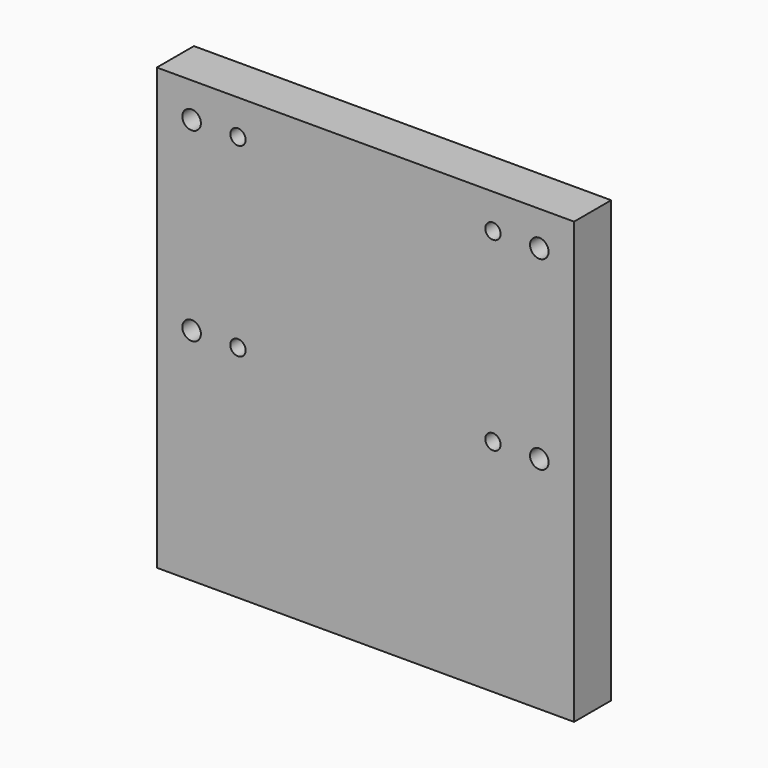
from build123d import *

# Parameters (mm, degrees)
F0_W     = 90
F0_H     = 10
F1_DEPTH = 95
F2_R     = 2
F3_DEPTH = 10
F4_D     = 3.3
F4_DEPTH = 13
F4_TIP   = 0.9914200214
F5_R     = 2
F6_DEPTH = 10.001
F7_D     = 3.3


with BuildPart() as f1:
    # F0 (on Top) → F1 (new body)
    with BuildSketch(Plane.XY):
        Rectangle(F0_W, F0_H)
    extrude(amount=F1_DEPTH)

    # F2 (on face) → F3 (cut)
    with BuildSketch(Plane(origin=(0, 0, 0), x_dir=(1, 0, 0), z_dir=(0, 0, -1))):
        with Locations((-15, 0)):
            Circle(F2_R)
        with Locations((15, 0)):
            Circle(F2_R)
    extrude(amount=-F3_DEPTH, mode=Mode.SUBTRACT)

    # F4
    with Locations(Plane(origin=(0, 0, 0), x_dir=(1, 0, 0), z_dir=(0, 0, -1))):
        with Locations((-35, 0), (35, 0)):
            Hole(F4_D / 2, depth=F4_DEPTH)
            with Locations((0, 0, -(F4_DEPTH + F4_TIP / 2))):  # 118° drill point
                Cone(0, F4_D / 2, F4_TIP, mode=Mode.SUBTRACT)

    # F5 (on face) → F6 (cut, through all)
    with BuildSketch(Plane.XZ.offset(5)):
        with Locations((-37.5, 47.5)):
            Circle(F5_R)
        with Locations((-37.5, 87.5)):
            Circle(F5_R)
        with Locations((37.5, 87.5)):
            Circle(F5_R)
        with Locations((37.5, 47.5)):
            Circle(F5_R)
    extrude(amount=-F6_DEPTH, mode=Mode.SUBTRACT)

    # F7 (through all)
    with Locations(Plane.XZ.offset(5)):
        with Locations((-27.5, 47.5), (-27.5, 87.5), (27.5, 87.5), (27.5, 47.5)):
            Hole(F7_D / 2)


solid = f1.part
